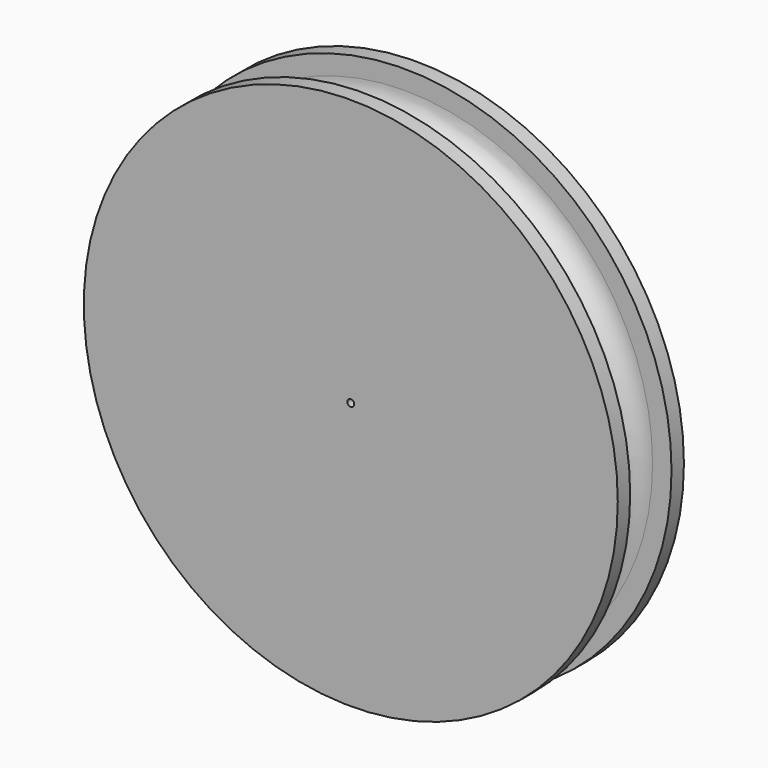
from build123d import *

# Parameters (mm, degrees)
F0_R     = 38.75
F1_DEPTH = 6
F5_R     = 0.5
F6_DEPTH = 12.001


with BuildPart() as f1:
    # F0 (on Front) → F1 (new body, symmetric)
    with BuildSketch(Plane.XZ):
        Circle(F0_R)
    extrude(amount=F1_DEPTH, both=True)

    # F2 (on Right) → F4 (revolve, cut)
    with BuildSketch(Plane.YZ):
        with BuildLine():
            Line((3.75, 36), (3.75, 40))
            Line((3.75, 40), (-3.75, 40))
            Line((-3.75, 40), (-3.75, 36))
            ThreePointArc((-3.75, 36), (-2.724874, 33.525126), (-0.25, 32.5))
            Line((-0.25, 32.5), (0.25, 32.5))
            ThreePointArc((0.25, 32.5), (2.724874, 33.525126), (3.75, 36))
        make_face()
    revolve(axis=Axis((0, -2.011297, 0), (0, -1, 0)), mode=Mode.SUBTRACT)

    # F5 (on face) → F6 (cut, through all)
    with BuildSketch(Plane(origin=(0, 6, 0), x_dir=(-1, 0, 0), z_dir=(0, 1, 0))):
        Circle(F5_R)
    extrude(amount=-F6_DEPTH, mode=Mode.SUBTRACT)


solid = f1.part
